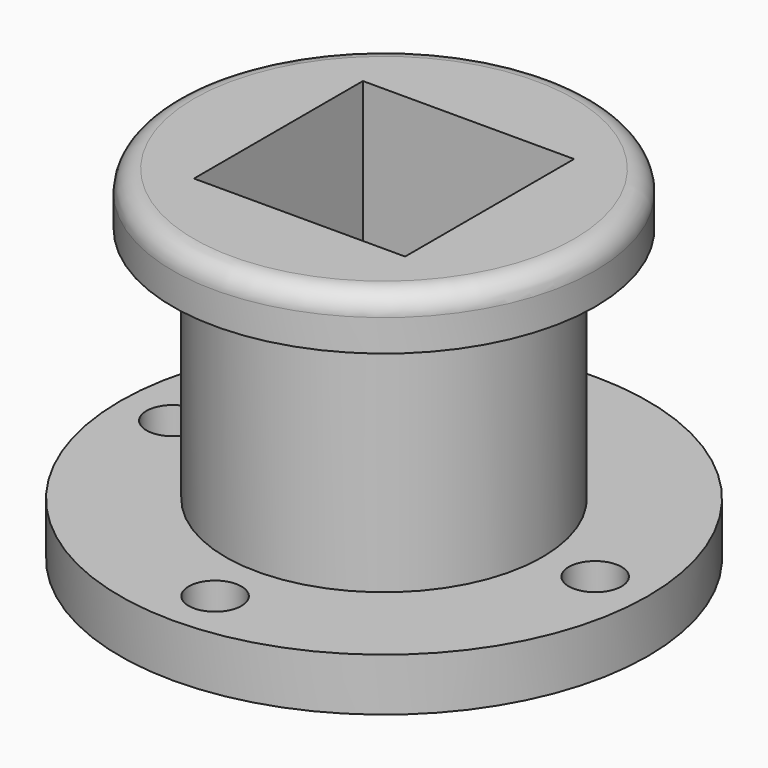
from build123d import *

# Parameters (mm, degrees)
F0_R      = 63.5
F1_DEPTH  = 12.7
F2_R      = 38.1
F3_DEPTH  = 57.15
F5_R      = 50.8
F6_DEPTH  = 12.7
F7_R      = 6.35
F8_DEPTH  = 12.7
F9_R      = 6.35
F10_DEPTH = 12.7
F11_R     = 6.35
F12_DEPTH = 12.7
F13_R     = 6.35
F14_DEPTH = 25.4
F15_R     = 6.35
F16_DEPTH = 25.4
F18_R     = 5.08
F19_W     = 50.8
F19_H     = 50.8
F20_DEPTH = 431.8


with BuildPart() as f1:
    # F0 (on Top) → F1 (new body)
    with BuildSketch(Plane.XY):
        Circle(F0_R)
    extrude(amount=F1_DEPTH)

    # F2 (on face) → F3 (join)
    with BuildSketch(Plane.XY.offset(12.7)):
        Circle(F2_R)
    extrude(amount=F3_DEPTH)

    # F5 (on face) → F6 (join)
    with BuildSketch(Plane.XY.offset(69.85)):
        Circle(F5_R)
    extrude(amount=F6_DEPTH)

    # F7 (on face) → F8 (cut)
    with BuildSketch(Plane.XY.offset(12.7)):
        with Locations((0, 50.8)):
            Circle(F7_R)
        with Locations((-50.8, 0)):
            Circle(F7_R)
        with Locations((50.8, 0)):
            Circle(F7_R)
        with Locations((0, -50.8)):
            Circle(F7_R)
    extrude(amount=F8_DEPTH, mode=Mode.SUBTRACT)

    # F9 (on face) → F10 (cut)
    with BuildSketch(Plane.XY.offset(12.7)):
        with Locations((0, 50.8)):
            Circle(F9_R)
    extrude(amount=-F10_DEPTH, mode=Mode.SUBTRACT)

    # F11 (on face) → F12 (cut)
    with BuildSketch(Plane.XY.offset(12.7)):
        with Locations((-50.8, 0)):
            Circle(F11_R)
    extrude(amount=-F12_DEPTH, mode=Mode.SUBTRACT)

    # F13 (on face) → F14 (cut)
    with BuildSketch(Plane.XY.offset(12.7)):
        with Locations((0, -50.8)):
            Circle(F13_R)
    extrude(amount=-F14_DEPTH, mode=Mode.SUBTRACT)

    # F15 (on face) → F16 (cut)
    with BuildSketch(Plane.XY.offset(12.7)):
        with Locations((50.8, 0)):
            Circle(F15_R)
    extrude(amount=-F16_DEPTH, mode=Mode.SUBTRACT)

    # F18
    f18_edges = [f1.edges().sort_by_distance(p)[0] for p in [
        (-50.8, 0, 82.55),
    ]]
    fillet(f18_edges, radius=F18_R)

    # F19 (on face) → F20 (cut)
    with BuildSketch(Plane.XY.offset(82.55)):
        Rectangle(F19_W, F19_H)
    extrude(amount=-F20_DEPTH, mode=Mode.SUBTRACT)


solid = f1.part
